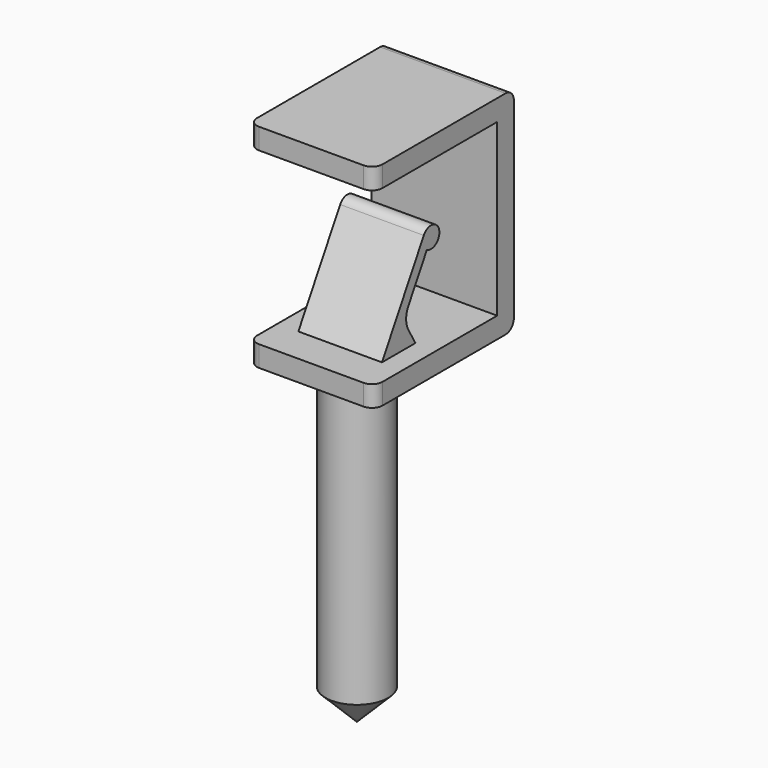
from build123d import *

# Parameters (mm, degrees)
F1_DEPTH = 9.525
F2_R     = 1.5875
F4_DEPTH = 6.35


with BuildPart() as f1:
    # F0 (on Right) → F1 (new body, symmetric)
    with BuildSketch(Plane.YZ):
        Polygon((0, 3.175), (0, 0), (26.542, 0), (26.542, 32.258), (0, 32.258), (0, 29.083), (23.367, 29.083), (23.367, 3.175), align=None)
    extrude(amount=F1_DEPTH, both=True)

    # F2
    f2_edges = [f1.edges().sort_by_distance(p)[0] for p in [
        (9.525, 0, 30.6705),
        (-9.525, 0, 30.6705),
        (-9.525, 0, 1.5875),
        (9.525, 0, 1.5875),
        (0, 26.542, 32.258),
        (0, 26.542, 0),
    ]]
    fillet(f2_edges, radius=F2_R)

    # F3 (on Right) → F4 (join, symmetric)
    with BuildSketch(Plane.YZ):
        with BuildLine():
            Line((13.404685, 16.92275), (5.467418, 3.175))
            Line((5.467418, 3.175), (11.817418, 3.175))
            Line((11.817418, 3.175), (10.475505, 5.499261))
            ThreePointArc((10.475505, 5.499261), (10.050135, 7.086761), (10.475505, 8.674261))
            Line((10.475505, 8.674261), (13.98575, 14.754185))
            ThreePointArc((13.98575, 14.754185), (16.312907, 16.539875), (13.404685, 16.92275))
        make_face()
    extrude(amount=F4_DEPTH, both=True)

    # F5 (on Right) → F6 (revolve)
    with BuildSketch(Plane.YZ):
        Polygon((8.642418, 0), (3.879918, 0), (3.879918, -43.4975), (8.642418, -48.26), align=None)
    revolve(axis=Axis((0, 8.642418, -24.13), (0, 0, 1)))


solid = f1.part
